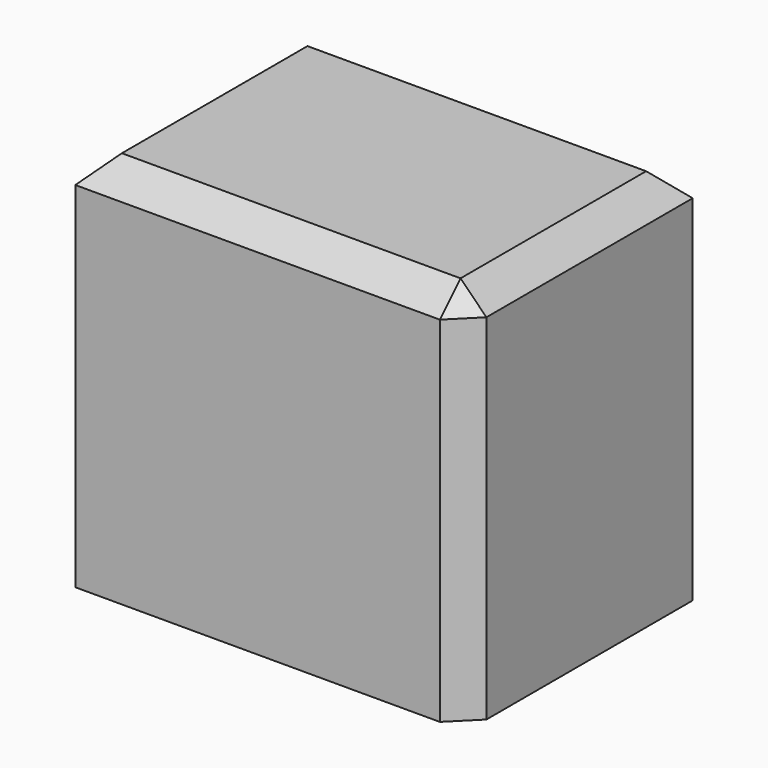
from build123d import *

# Parameters (mm, degrees)
F0_W     = 76.6562521458
F0_H     = 74.6114850044
F1_DEPTH = 27.8570577502
F2_SIZE  = 5.08


with BuildPart() as f1:
    # F0 (on Front) → F1 (new body, symmetric)
    with BuildSketch(Plane.XZ):
        with Locations((38.3281260729, 0)):
            Rectangle(F0_W, F0_H)
    extrude(amount=F1_DEPTH, both=True)

    # F2
    f2_edges = [f1.edges().sort_by_distance(p)[0] for p in [
        (76.656252, 0, 37.305743),
        (38.328126, -27.857058, 37.305743),
        (0, 0, 37.305743),
        (76.656252, -27.857058, 0),
        (38.328126, 27.857058, 37.305743),
    ]]
    chamfer(f2_edges, length=F2_SIZE)


solid = f1.part
